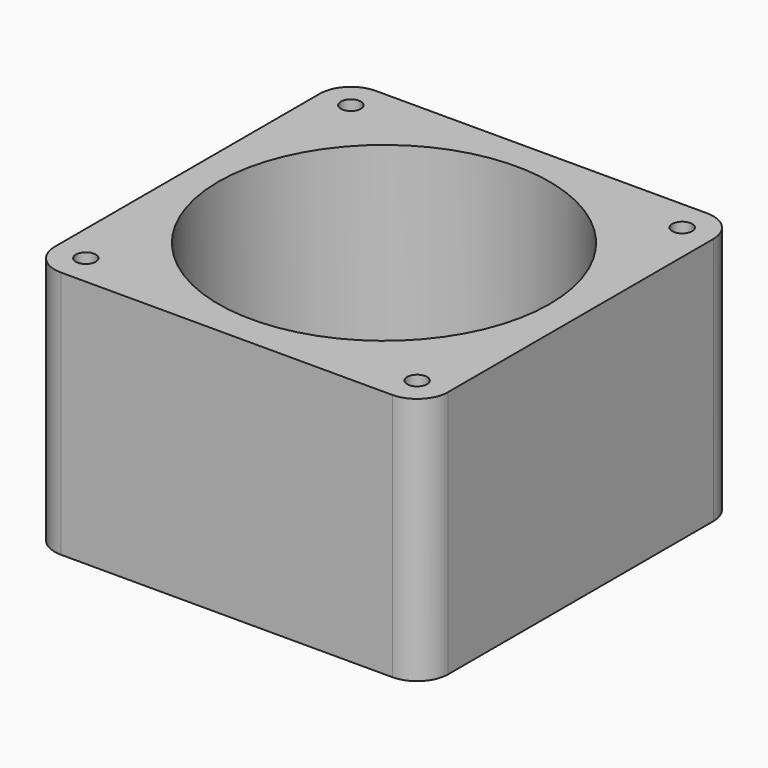
from build123d import *

# Parameters (mm, degrees)
F0_R     = 1.524
F1_DEPTH = 38.1
F2_R     = 25.4
F3_DEPTH = 38.101


with BuildPart() as f1:
    # F0 (on Top) → F1 (new body)
    with BuildSketch(Plane.XY):
        with BuildLine():
            ThreePointArc((30.1625, 25.4), (28.767596, 28.767596), (25.4, 30.1625))
            Line((25.4, 30.1625), (-25.4, 30.1625))
            ThreePointArc((-25.4, 30.1625), (-28.767596, 28.767596), (-30.1625, 25.4))
            Line((-30.1625, 25.4), (-30.1625, -25.4))
            ThreePointArc((-30.1625, -25.4), (-28.767596, -28.767596), (-25.4, -30.1625))
            Line((-25.4, -30.1625), (25.4, -30.1625))
            ThreePointArc((25.4, -30.1625), (28.767596, -28.767596), (30.1625, -25.4))
            Line((30.1625, -25.4), (30.1625, 25.4))
        make_face()
        with Locations((-25.4, -25.4)):
            Circle(F0_R, mode=Mode.SUBTRACT)
        with Locations((25.4, -25.4)):
            Circle(F0_R, mode=Mode.SUBTRACT)
        with Locations((-25.4, 25.4)):
            Circle(F0_R, mode=Mode.SUBTRACT)
        with Locations((25.4, 25.4)):
            Circle(F0_R, mode=Mode.SUBTRACT)
    extrude(amount=F1_DEPTH)

    # F2 (on face) → F3 (cut, through all)
    with BuildSketch(Plane.XY.offset(38.1)):
        Circle(F2_R)
    extrude(amount=-F3_DEPTH, mode=Mode.SUBTRACT)


solid = f1.part
